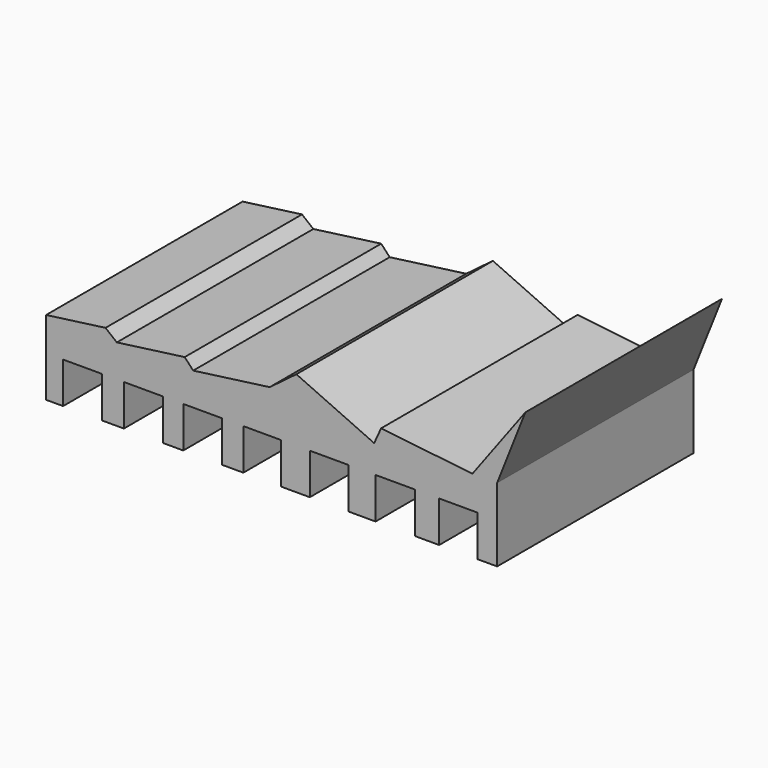
from build123d import *

# Parameters (mm, degrees)
F1_DEPTH = 100


with BuildPart() as f1:
    # F0 (on Front) → F1 (new body)
    with BuildSketch(Plane.XZ):
        Polygon((-71.519732, 3.721202), (-95.721555, 0.46163), (-95.721555, -29.952072), (-88.788077, -29.952072), (-88.788077, -13.259338), (-72.95876, -13.259338), (-72.95876, -29.952072), (-64.036779, -29.952072), (-64.036779, -13.259338), (-48.207466, -13.259338), (-48.207466, -29.952072), (-39.861098, -29.952072), (-39.861098, -13.259338), (-24.031781, -13.259338), (-24.031781, -29.952072), (-15.397607, -29.952072), (-15.397607, -13.259338), (0, -13.259338), (0, -29.952072), (11.656133, -29.952072), (11.656133, -13.259338), (27.485453, -13.259338), (27.485453, -29.952072), (38.42207, -29.952072), (38.42207, -13.259338), (54.539189, -13.259338), (54.539189, -29.952072), (64.324595, -29.952072), (64.324595, -13.259338), (79.866096, -13.259338), (79.866096, -29.952072), (87.924659, -29.952072), (87.924659, 0), (99.436887, 29.048109), (77.851459, 0), (40.678521, 4.195626), (37.846457, -2.034914), (6.187825, 12.355374), (-4.679938, 4.195626), (-35.831816, 0), (-39.285488, 3.721202), (-66.914842, 0), align=None)
    extrude(amount=-F1_DEPTH)


solid = f1.part
